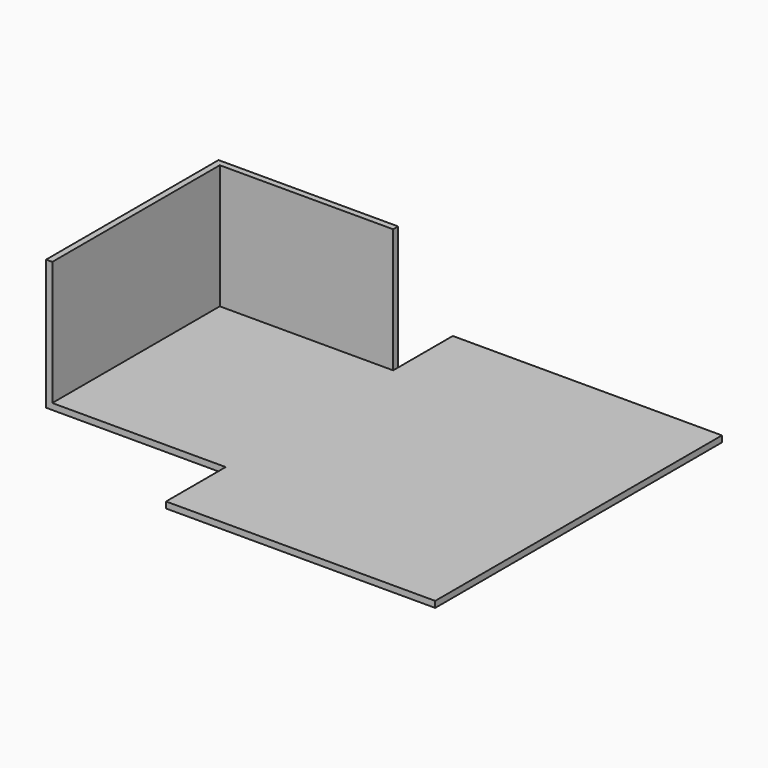
from build123d import *

# Parameters (mm, degrees)
F0_W     = 152.4
F0_H     = 5137.15
F1_DEPTH = 3048
F2_DEPTH = 152.4


with BuildPart() as f1:
    # F0 (on Top) → F1 (new body)
    with BuildSketch(Plane.XY):
        Polygon((-152.4, 5137.15), (0, 5137.15), (4254.5, 5137.15), (4254.5, 5289.55), (-152.4, 5289.55), align=None)
        with Locations((-76.2, 2568.575)):
            Rectangle(F0_W, F0_H)
    extrude(amount=F1_DEPTH)

    # F0 (on Top) → F2 (join)
    with BuildSketch(Plane.XY):
        Polygon((0, 5137.15), (0, 0), (4254.5, 0), (10858.5, 0), (10858.5, 5137.15), (4254.5, 5137.15), align=None)
        with Locations((-76.2, 2568.575)):
            Rectangle(F0_W, F0_H)
        Polygon((-152.4, 5137.15), (0, 5137.15), (4254.5, 5137.15), (4254.5, 5289.55), (-152.4, 5289.55), align=None)
        Polygon((0, 5137.15), (0, 0), (4254.5, 0), (10858.5, 0), (10858.5, 5137.15), (4254.5, 5137.15), align=None)
        Polygon((10858.5, 0), (4254.5, 0), (4254.5, -152.4), (4254.5, -1828.8), (10858.5, -1828.8), align=None)
        Polygon((4254.5, 5289.55), (4254.5, 5137.15), (10858.5, 5137.15), (10858.5, 6965.95), (4254.5, 6965.95), align=None)
    extrude(amount=-F2_DEPTH)


solid = f1.part
